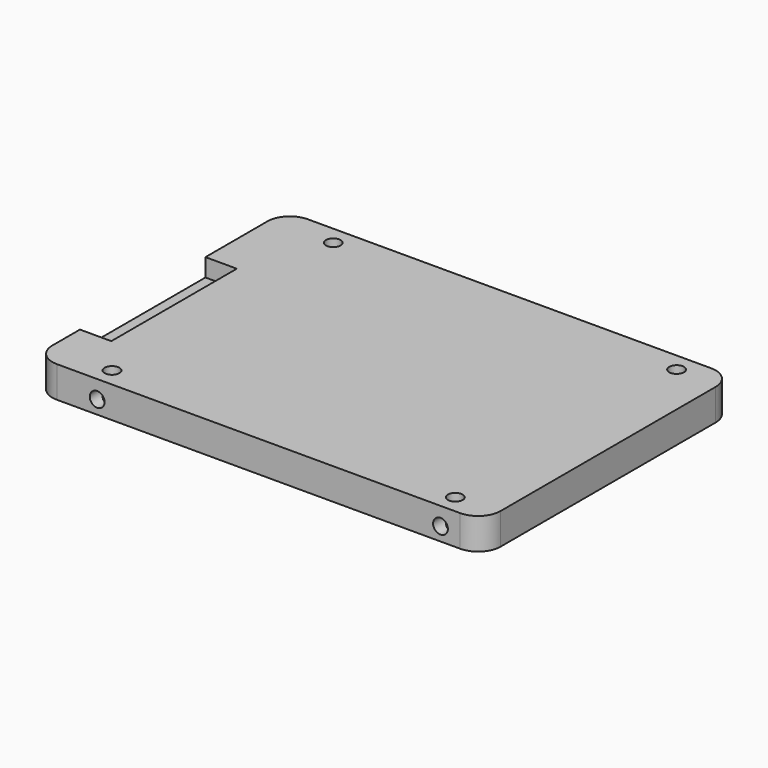
from build123d import *

# Parameters (mm, degrees)
F0_W           = 100
F0_H           = 70
F1_DEPTH       = 7
F2_R           = 5
F6_D           = 3.3
F6_DEPTH       = 7
F6_TIP         = 0.9914200214
F6_ON_F5_D     = 3.3
F6_ON_F5_DEPTH = 7
F6_ON_F5_TIP   = 0.9914200214
F6_ON_F4_D     = 3.3
F6_ON_F4_DEPTH = 7
F6_ON_F4_TIP   = 0.9914200214
F7_W           = 7
F7_H           = 35
F8_DEPTH       = 4


with BuildPart() as f1:
    # F0 (on Top) → F1 (new body)
    with BuildSketch(Plane.XY):
        Rectangle(F0_W, F0_H)
    extrude(amount=F1_DEPTH)

    # F2
    f2_edges = [f1.edges().sort_by_distance(p)[0] for p in [
        (-50, -35, 3.5),
        (50, -35, 3.5),
        (-50, 35, 3.5),
        (50, 35, 3.5),
    ]]
    fillet(f2_edges, radius=F2_R)

    # F6
    with Locations(Plane.XY.offset(7)):
        with Locations((-36, 30.855), (-36, -30.855), (40.6, -30.855), (40.6, 30.855)):
            Hole(F6_D / 2, depth=F6_DEPTH)
            with Locations((0, 0, -(F6_DEPTH + F6_TIP / 2))):  # 118° drill point
                Cone(0, F6_D / 2, F6_TIP, mode=Mode.SUBTRACT)

    # F6 on F5
    with Locations(Plane(origin=(0, 35, 0), x_dir=(-1, 0, 0), z_dir=(0, 1, 0))):
        with Locations((-40.6, 3), (36, 3)):
            Hole(F6_ON_F5_D / 2, depth=F6_ON_F5_DEPTH)
            with Locations((0, 0, -(F6_ON_F5_DEPTH + F6_ON_F5_TIP / 2))):  # 118° drill point
                Cone(0, F6_ON_F5_D / 2, F6_ON_F5_TIP, mode=Mode.SUBTRACT)

    # F6 on F4
    with Locations(Plane.XZ.offset(35)):
        with Locations((-36, 3), (40.6, 3)):
            Hole(F6_ON_F4_D / 2, depth=F6_ON_F4_DEPTH)
            with Locations((0, 0, -(F6_ON_F4_DEPTH + F6_ON_F4_TIP / 2))):  # 118° drill point
                Cone(0, F6_ON_F4_D / 2, F6_ON_F4_TIP, mode=Mode.SUBTRACT)

    # F7 (on face) → F8 (cut)
    with BuildSketch(Plane.XY.offset(7)):
        with Locations((-46.5, -4.8)):
            Rectangle(F7_W, F7_H)
    extrude(amount=-F8_DEPTH, mode=Mode.SUBTRACT)


solid = f1.part
